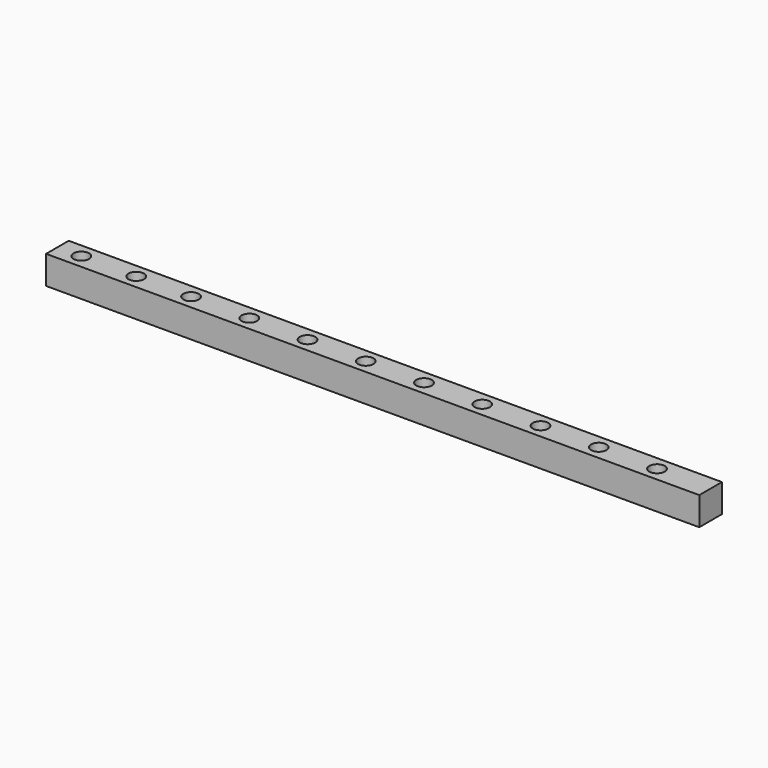
from build123d import *

# Parameters (mm, degrees)
F0_W     = 150
F0_H     = 6.5
F0_R     = 1.778
F1_DEPTH = 6.5


with BuildPart() as f1:
    # F0 (on Top) → F1 (new body)
    with BuildSketch(Plane.XY):
        with Locations((75, 3.25)):
            Rectangle(F0_W, F0_H)
        with Locations((5.5, 3.25)):
            Circle(F0_R, mode=Mode.SUBTRACT)
        with Locations((18.1, 3.25)):
            Circle(F0_R, mode=Mode.SUBTRACT)
        with Locations((30.7, 3.25)):
            Circle(F0_R, mode=Mode.SUBTRACT)
        with Locations((44.075, 3.25)):
            Circle(F0_R, mode=Mode.SUBTRACT)
        with Locations((57.45, 3.25)):
            Circle(F0_R, mode=Mode.SUBTRACT)
        with Locations((70.825, 3.25)):
            Circle(F0_R, mode=Mode.SUBTRACT)
        with Locations((84.2, 3.25)):
            Circle(F0_R, mode=Mode.SUBTRACT)
        with Locations((97.575, 3.25)):
            Circle(F0_R, mode=Mode.SUBTRACT)
        with Locations((110.95, 3.25)):
            Circle(F0_R, mode=Mode.SUBTRACT)
        with Locations((124.325, 3.25)):
            Circle(F0_R, mode=Mode.SUBTRACT)
        with Locations((137.7, 3.25)):
            Circle(F0_R, mode=Mode.SUBTRACT)
    extrude(amount=F1_DEPTH)


solid = f1.part
